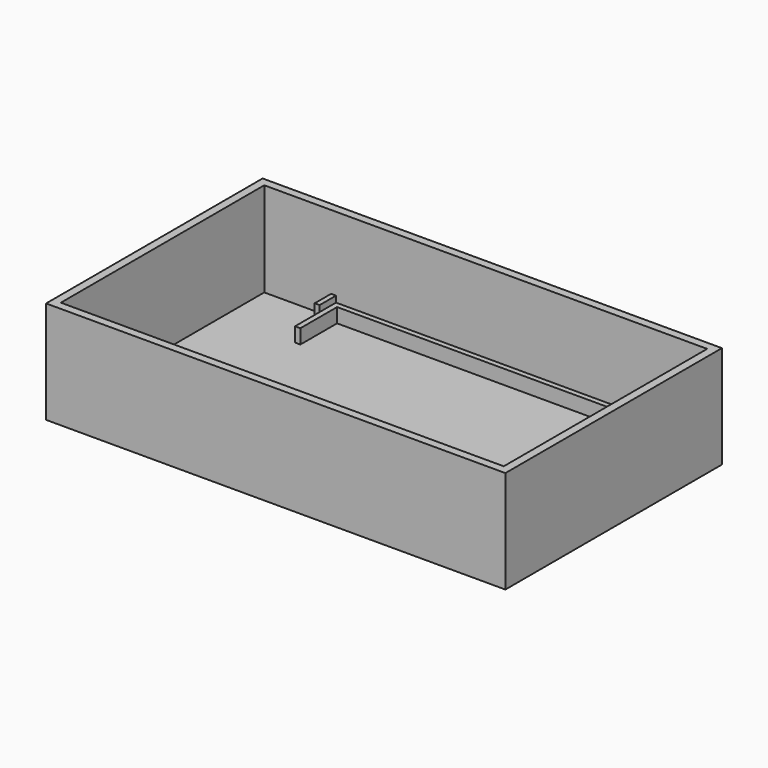
from build123d import *

# Parameters (mm, degrees)
F0_W     = 112
F0_H     = 66
F1_DEPTH = 25
F2_W     = 108
F2_H     = 62
F3_DEPTH = 23
F5_DEPTH = 3.5
F6_W     = 1.2
F6_H     = 5
F6_H_2   = 1.5
F7_DEPTH = 5


with BuildPart() as f1:
    # F0 (on Top) → F1 (new body)
    with BuildSketch(Plane.XY):
        with Locations((7.001376, -11.34)):
            Rectangle(F0_W, F0_H)
    extrude(amount=F1_DEPTH)

    # F2 (on face) → F3 (cut)
    with BuildSketch(Plane.XY.offset(25)):
        with Locations((7.001376, -11.34)):
            Rectangle(F2_W, F2_H)
    extrude(amount=-F3_DEPTH, mode=Mode.SUBTRACT)

    # F4 (on face) → F5 (join)
    with BuildSketch(Plane.XY.offset(2)):
        Polygon((-28.198624, 7.16), (-28.198624, 18.36), (55.101376, 18.36), (55.101376, -41.04), (-28.198624, -41.04), (-28.198624, -28.84), (-29.498624, -28.84), (-29.498624, -42.34), (56.401376, -42.34), (56.401376, 19.66), (-29.498624, 19.66), (-29.498624, 7.16), align=None)
    extrude(amount=F5_DEPTH)

    # F6 (on face) → F7 (join)
    with BuildSketch(Plane.XY.offset(2)):
        with Locations((57.001376, 17.16)):
            Rectangle(F6_W, F6_H)
        with Locations((-30.098624, -41.59)):
            Rectangle(F6_W, F6_H_2)
        with Locations((57.001376, -41.59)):
            Rectangle(F6_W, F6_H_2)
        with Locations((-30.098624, 17.16)):
            Rectangle(F6_W, F6_H)
    extrude(amount=F7_DEPTH)


solid = f1.part
